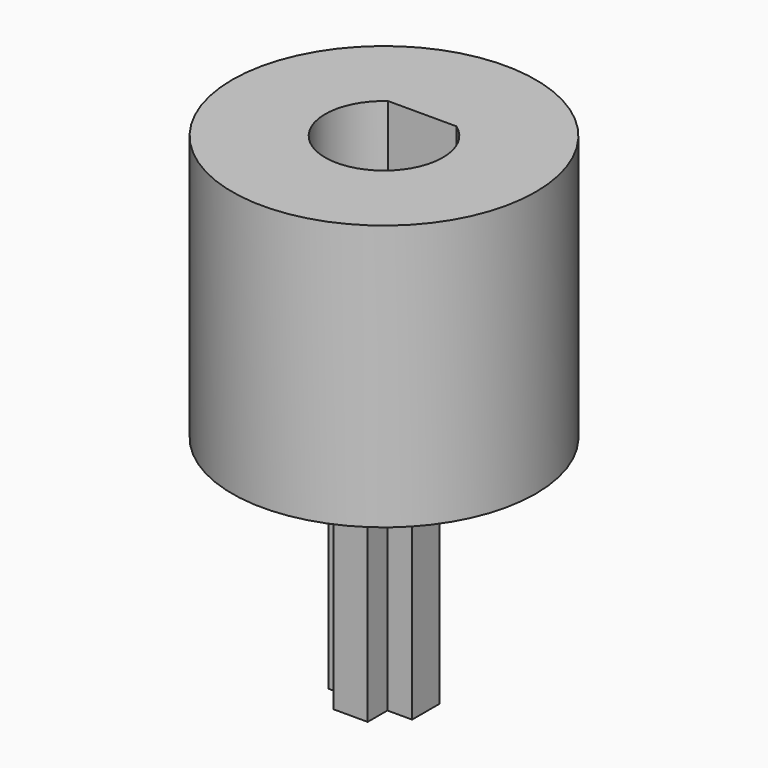
from build123d import *

# Parameters (mm, degrees)
SKETCH_R     = 8
PAD_DEPTH    = 14
POCKET_DEPTH = 12
PAD001_DEPTH = 12


with BuildPart() as part:
    # Sketch → Pad (new body)
    with BuildSketch(Plane.XY):
        Circle(SKETCH_R)
    extrude(amount=PAD_DEPTH)

    # Sketch001 → Pocket (cut)
    with BuildSketch(Plane.XY.offset(14)):
        with BuildLine():
            Line((-1.8, 2.523886), (1.8, 2.523886))
            ThreePointArc((-1.8, 2.523886), (0, -3.1), (1.8, 2.523886))
        make_face()
    extrude(amount=-POCKET_DEPTH, mode=Mode.SUBTRACT)

    # Sketch002 → Pad001 (new body)
    with BuildSketch(Plane(origin=(0, 0, 0), x_dir=(1, 0, 0), z_dir=(0, 0, -1))):
        Polygon((-0.9, 2.2), (0.9, 2.2), (0.9, 0.9), (2.2, 0.9), (2.2, -0.9), (0.9, -0.9), (0.9, -2.2), (-0.9, -2.2), (-0.9, -0.9), (-2.2, -0.9), (-2.2, 0.9), (-0.9, 0.9), align=None)
    extrude(amount=PAD001_DEPTH)


solid = part.part
